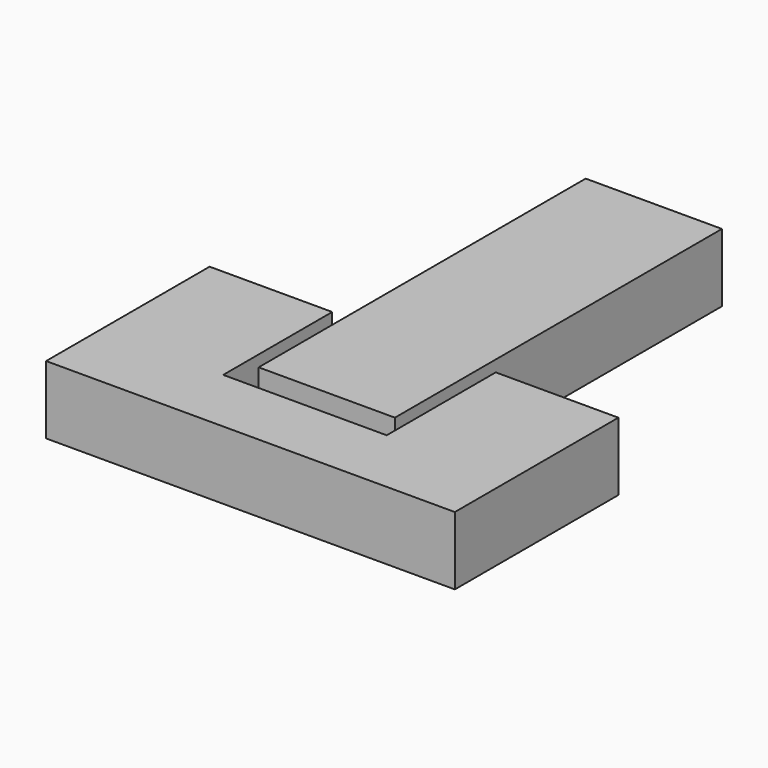
from build123d import *

# Parameters (mm, degrees)
CYLINDER_R              = 1.15
CYLINDER_DEPTH          = 20
CYLINDER_PITCH_ANGLE    = 90
BOX004_W                = 9
BOX004_H                = 2.6
BOX004_DEPTH            = 1.3
CYLINDER002_R           = 1.3
CYLINDER002_DEPTH       = 9
CYLINDER002_PITCH_ANGLE = 90
BOX002_W                = 9
BOX002_H                = 2.6
BOX002_DEPTH            = 1.3
CYLINDER001_R           = 1.3
CYLINDER001_DEPTH       = 9
CYLINDER001_PITCH_ANGLE = 90
BOX001_W                = 10
BOX001_H                = 30
BOX001_DEPTH            = 5
BOX003_W                = 12
BOX003_H                = 30
BOX003_DEPTH            = 5
BOX_W                   = 30
BOX_H                   = 15
BOX_DEPTH               = 5


with BuildPart() as cylinder:
    # Cylinder → Cylinder (new body)
    with BuildSketch(Plane.XY):
        Circle(CYLINDER_R)
    extrude(amount=CYLINDER_DEPTH)


with BuildPart() as cylinder_1:
    # Cylinder pitch: moved
    add(cylinder.part.rotate(Axis((0, 0, 0), (0, 1, 0)), CYLINDER_PITCH_ANGLE))


with BuildPart() as cylinder_2:
    # Cylinder placement: moved
    add(cylinder_1.part.moved(Location((5, 0, 0))))


with BuildPart() as cube004:
    # Box004 → Box004 (new body)
    with BuildSketch(Plane(origin=(5, -1.3, 0), x_dir=(1, 0, 0), z_dir=(0, 0, 1))):
        with Locations((4.5, 1.3)):
            Rectangle(BOX004_W, BOX004_H)
    extrude(amount=BOX004_DEPTH)


with BuildPart() as fusion001:
    # Cylinder002 → Cylinder002 (new body)
    with BuildSketch(Plane.XY):
        Circle(CYLINDER002_R)
    extrude(amount=CYLINDER002_DEPTH)


with BuildPart() as fusion001_1:
    # Cylinder002 pitch: moved
    add(fusion001.part.rotate(Axis((0, 0, 0), (0, 1, 0)), CYLINDER002_PITCH_ANGLE))


with BuildPart() as fusion001_2:
    # Cylinder002 placement: moved
    add(fusion001_1.part.moved(Location((5, 0, 0))))

    # Fusion001: union Cube004
    add(cube004.part)


with BuildPart() as fusion001_3:
    # Fusion001 placement: moved
    add(fusion001_2.part.moved(Location((11, 0, 0))))


with BuildPart() as cube002:
    # Box002 → Box002 (new body)
    with BuildSketch(Plane(origin=(5, -1.3, 0), x_dir=(1, 0, 0), z_dir=(0, 0, 1))):
        with Locations((4.5, 1.3)):
            Rectangle(BOX002_W, BOX002_H)
    extrude(amount=BOX002_DEPTH)


with BuildPart() as fusion002:
    # Cylinder001 → Cylinder001 (new body)
    with BuildSketch(Plane.XY):
        Circle(CYLINDER001_R)
    extrude(amount=CYLINDER001_DEPTH)


with BuildPart() as fusion002_1:
    # Cylinder001 pitch: moved
    add(fusion002.part.rotate(Axis((0, 0, 0), (0, 1, 0)), CYLINDER001_PITCH_ANGLE))


with BuildPart() as fusion002_2:
    # Cylinder001 placement: moved
    add(fusion002_1.part.moved(Location((5, 0, 0))))

    # Fusion: union Cube002
    add(cube002.part)

    # Fusion002: union Fusion001
    add(fusion001_3.part)


with BuildPart() as cube001:
    # Box001 → Box001 (new body)
    with BuildSketch(Plane(origin=(10, -3, -2.5), x_dir=(1, 0, 0), z_dir=(0, 0, 1))):
        with Locations((5, 15)):
            Rectangle(BOX001_W, BOX001_H)
    extrude(amount=BOX001_DEPTH)


with BuildPart() as cube003:
    # Box003 → Box003 (new body)
    with BuildSketch(Plane(origin=(9, -5, -2.5), x_dir=(1, 0, 0), z_dir=(0, 0, 1))):
        with Locations((6, 15)):
            Rectangle(BOX003_W, BOX003_H)
    extrude(amount=BOX003_DEPTH)


with BuildPart() as cut001:
    # Box → Box (new body)
    with BuildSketch(Plane(origin=(0, -10, -2.5), x_dir=(1, 0, 0), z_dir=(0, 0, 1))):
        with Locations((15, 7.5)):
            Rectangle(BOX_W, BOX_H)
    extrude(amount=BOX_DEPTH)

    # Cut: cut Cube003
    add(cube003.part, mode=Mode.SUBTRACT)

    # Fusion003: union Cube001
    add(cube001.part)

    # Cut001: cut Fusion002
    add(fusion002_2.part, mode=Mode.SUBTRACT)


solid = Compound([cylinder_2.part, cut001.part])
